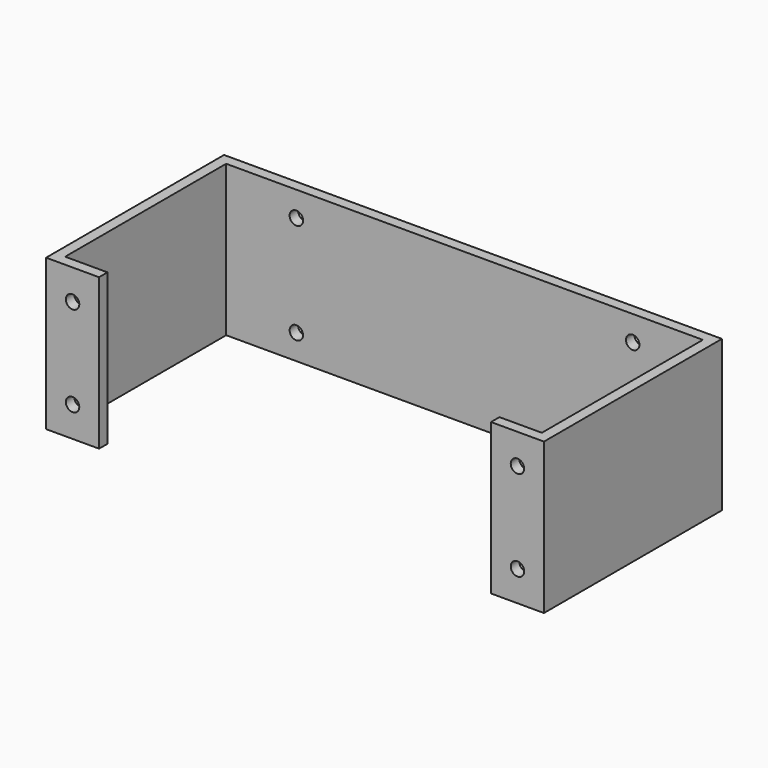
from build123d import *

# Parameters (mm, degrees)
F0_W     = 16
F0_H     = 4
F1_DEPTH = 57
F3_R     = 2.54
F4_DEPTH = 4.001
F5_R     = 2.54
F6_DEPTH = 84.001


with BuildPart() as f1:
    # F0 (on Top) → F1 (new body)
    with BuildSketch(Plane.XY):
        with Locations((28, 2)):
            Rectangle(F0_W, F0_H)
        Polygon((16, 0), (20, 0), (20, 4), (20, 80), (200, 80), (200, 4), (200, 0), (204, 0), (204, 4), (204, 84), (16, 84), (16, 4), align=None)
        with Locations((192, 2)):
            Rectangle(F0_W, F0_H)
    extrude(amount=F1_DEPTH)

    # F2 (on face) + F3 (on face) → F4 (cut, through all)
    with BuildSketch(Plane(origin=(0, 4, 0), x_dir=(-1, 0, 0), z_dir=(0, 1, 0))):
        with BuildLine():
            ThreePointArc((-23.46, 11.43), (-26, 13.97), (-28.54, 11.43))
            ThreePointArc((-28.54, 11.43), (-26, 8.89), (-23.46, 11.43))
        make_face()
        with BuildLine():
            ThreePointArc((-23.46, 45.57), (-26, 48.11), (-28.54, 45.57))
            ThreePointArc((-28.54, 45.57), (-26, 43.03), (-23.46, 45.57))
        make_face()
    with BuildSketch(Plane(origin=(0, 4, 0), x_dir=(-1, 0, 0), z_dir=(0, 1, 0))):
        with Locations((-194, 11.43)):
            Circle(F3_R)
        with Locations((-194, 45.57)):
            Circle(F3_R)
    extrude(amount=-F4_DEPTH, mode=Mode.SUBTRACT)

    # F5 (on face) → F6 (cut, through all)
    with BuildSketch(Plane(origin=(0, 84, 0), x_dir=(-1, 0, 0), z_dir=(0, 1, 0))):
        with Locations((-173.5, 47.55)):
            Circle(F5_R)
        with Locations((-173.5, 9.45)):
            Circle(F5_R)
        with Locations((-46.5, 9.45)):
            Circle(F5_R)
        with Locations((-46.5, 47.55)):
            Circle(F5_R)
    extrude(amount=-F6_DEPTH, mode=Mode.SUBTRACT)


solid = f1.part
